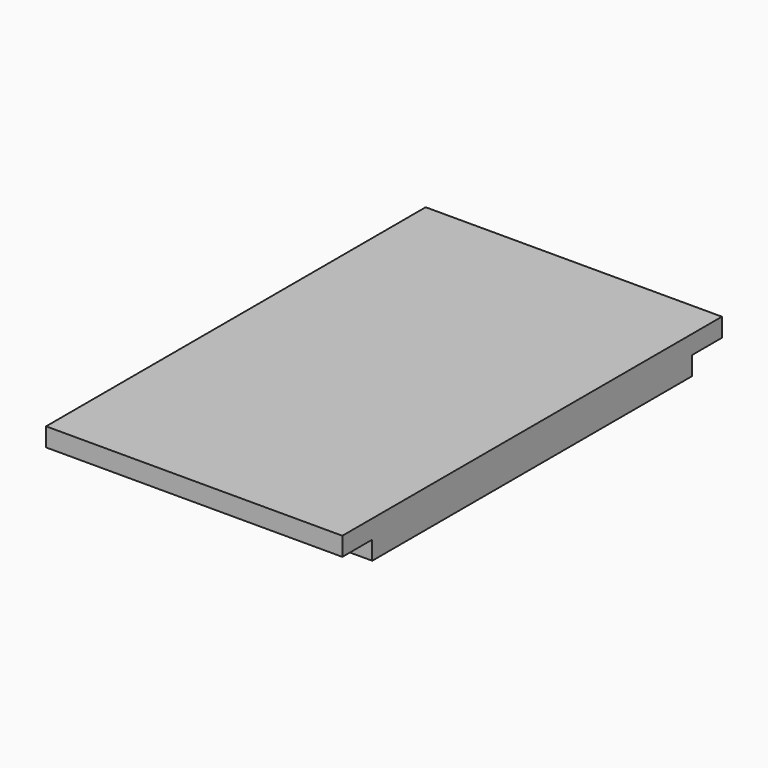
from build123d import *

# Parameters (mm, degrees)
F0_W     = 50.546
F0_H     = 6.3754
F0_H_2   = 68.199
F1_DEPTH = 3.175
F2_DEPTH = 3.175


with BuildPart() as f1:
    # F0 (on Top) → F1 (new body)
    with BuildSketch(Plane.XY):
        with Locations((0, 37.2872)):
            Rectangle(F0_W, F0_H)
        Rectangle(F0_W, F0_H_2)
        with Locations((0, -37.2872)):
            Rectangle(F0_W, F0_H)
    extrude(amount=F1_DEPTH)

    # F0 (on Top) → F2 (join)
    with BuildSketch(Plane.XY):
        Rectangle(F0_W, F0_H_2)
    extrude(amount=-F2_DEPTH)


solid = f1.part
